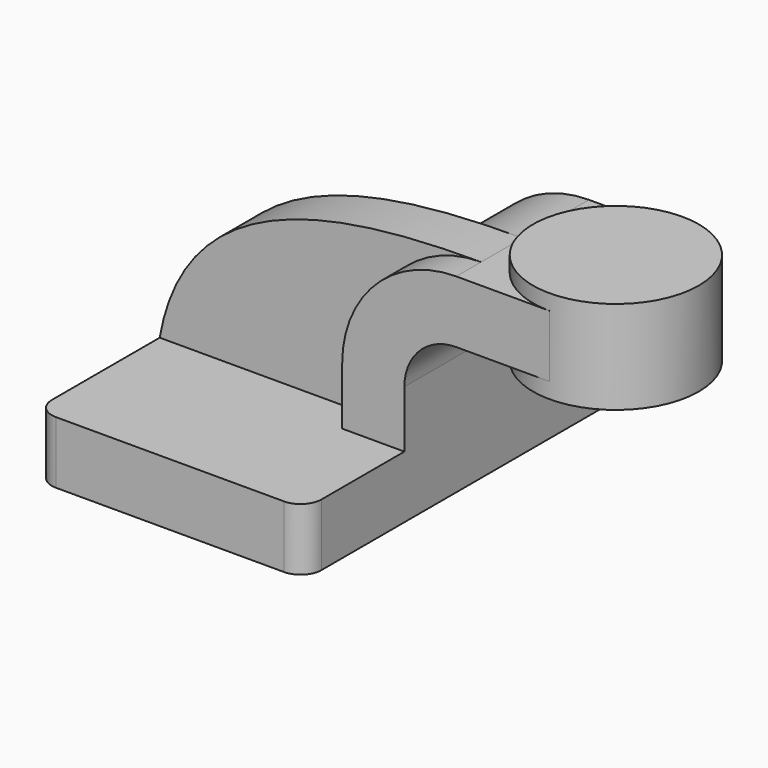
from build123d import *

# Parameters (mm, degrees)
F1_DEPTH = 63.5
F0_W     = 25.4
F0_H     = 19.05
F2_DEPTH = 25.4
F3_DEPTH = 15.875
F5_R     = 6.35


with BuildPart() as f1:
    # F0 (on Front) → F1 (new body, symmetric)
    with BuildSketch(Plane.XZ):
        Polygon((-41.275, 9.525), (-41.275, -9.525), (41.275, -9.525), (41.275, 9.525), (22.225, 9.525), align=None)
    extrude(amount=F1_DEPTH, both=True)

    # F0 (on Front) → F2 (join, symmetric)
    with BuildSketch(Plane.XZ):
        with BuildLine():
            Line((22.225, 9.525), (41.275, 9.525))
            Line((41.275, 9.525), (41.275, 27.0002))
            ThreePointArc((41.275, 27.0002), (45.9246798487, 38.2255201513), (57.15, 42.8752))
            Line((57.15, 42.8752), (60.325, 42.8752))
            Line((60.325, 42.8752), (60.325, 61.9252))
            Line((60.325, 61.9252), (57.15, 61.9252))
            ThreePointArc((57.15, 61.9252), (32.4542956671, 51.6959043329), (22.225, 27.0002))
            Line((22.225, 27.0002), (22.225, 9.525))
        make_face()
        with Locations((73.025, 52.4002)):
            Rectangle(F0_W, F0_H)
    extrude(amount=F2_DEPTH, both=True)

    # F0 (on Front) → F3 (join)
    with BuildSketch(Plane.XZ):
        with BuildLine():
            add(Edge.make_bspline(
                [(-41.275, 9.525), (-33.2000553608, 55.5414371192), (14.2285889015, 61.9252), (57.15, 61.9252)],
                knots=[0, 0, 0, 0, 111.5045361635, 111.5045361635, 111.5045361635, 111.5045361635], degree=3))
            Line((-41.275, 9.525), (22.225, 9.525))
            Line((22.225, 9.525), (22.225, 27.0002))
            ThreePointArc((22.225, 27.0002), (32.4542956671, 51.6959043329), (57.15, 61.9252))
        make_face()
    extrude(amount=F3_DEPTH)

    # F5
    f5_edges = [f1.edges().sort_by_distance(p)[0] for p in [
        (41.275, -63.5, 0),
        (-41.275, -63.5, 0),
        (41.275, 63.5, 0),
        (-41.275, 63.5, 0),
    ]]
    fillet(f5_edges, radius=F5_R)


with BuildPart() as f4:
    # F0 (on Front) → F4 (revolve)
    with BuildSketch(Plane.XZ):
        Polygon((85.725, 66.675), (85.725, 61.9252), (85.725, 42.8752), (85.725, 38.1), (111.125, 38.1), (111.125, 66.675), align=None)
    revolve(axis=Axis((85.725, 0, 52.3875), (0, 0, 1)))


solid = Compound([f1.part, f4.part])
